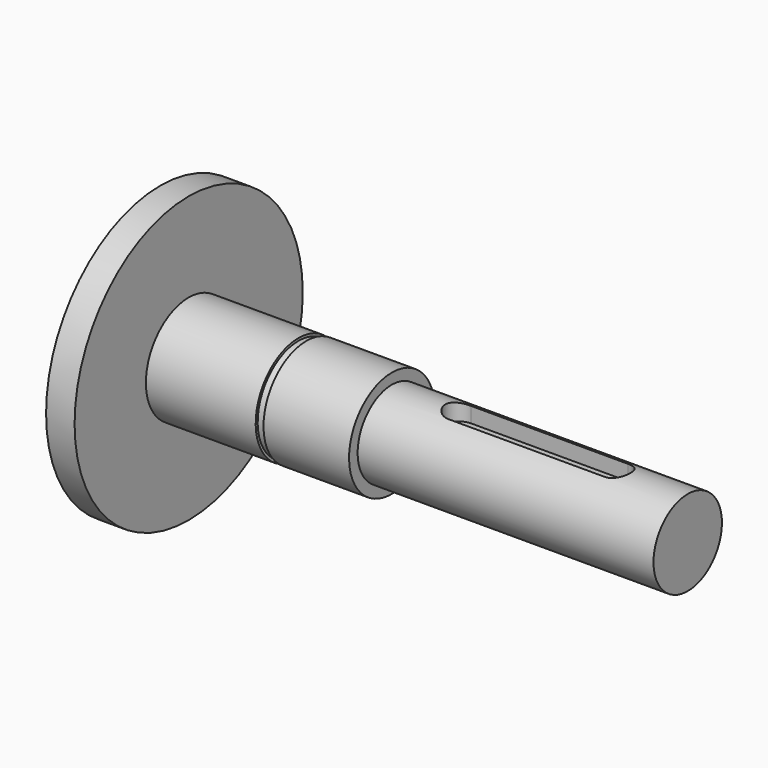
from build123d import *

# Parameters (mm, degrees)
F4_DEPTH = 2.5
F6_D     = 6.6
F6_DEPTH = 20
F6_TIP   = 1.9828400428


with BuildPart() as f1:
    # F0 (on Front) → F1 (revolve)
    with BuildSketch(Plane.XZ):
        Polygon((0, 20), (0, 0), (74, 0), (74, 6), (32.5, 6), (32.5, 7.5), (20.5, 7.5), (20.5, 7.15), (19.4, 7.15), (19.4, 7.5), (4, 7.5), (4, 20), align=None)
    revolve(axis=Axis((37, 0, 0), (-1, 0, 0)))

    # F3 (on offset) → F4 (cut)
    with BuildSketch(Plane.XY.offset(6)):
        with BuildLine():
            ThreePointArc((42, 2), (40, 0), (42, -2))
            Line((42, -2), (64, -2))
            ThreePointArc((64, -2), (66, 0), (64, 2))
            Line((64, 2), (42, 2))
        make_face()
    extrude(amount=-F4_DEPTH, mode=Mode.SUBTRACT)

    # F6
    with Locations(Plane(origin=(0, 0, 0), x_dir=(0, -1, 0), z_dir=(-1, 0, 0))):
        with Locations((0, 0)):
            Hole(F6_D / 2, depth=F6_DEPTH)
            with Locations((0, 0, -(F6_DEPTH + F6_TIP / 2))):  # 118° drill point
                Cone(0, F6_D / 2, F6_TIP, mode=Mode.SUBTRACT)


solid = f1.part
